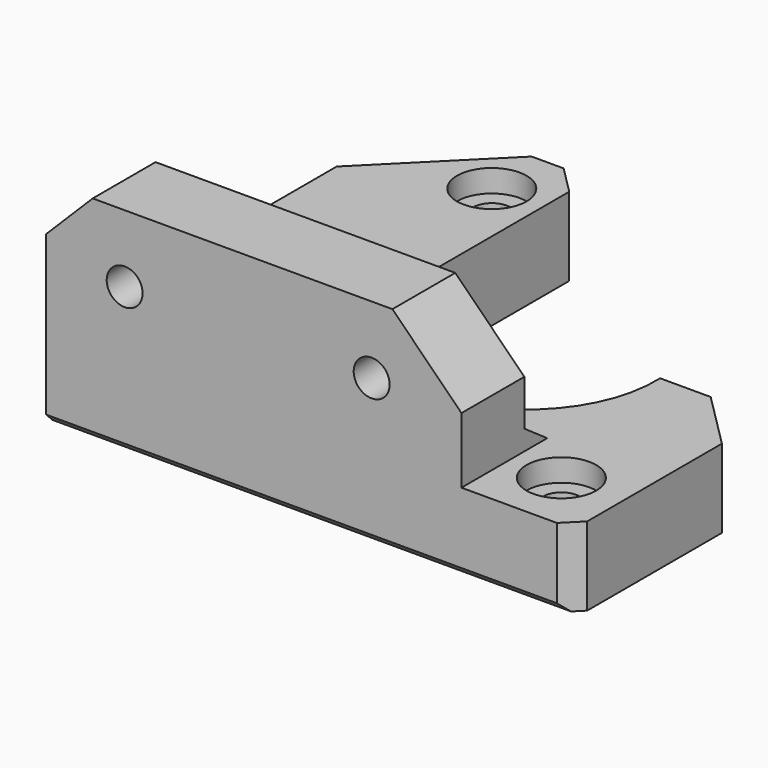
from build123d import *

# Parameters (mm, degrees)
SKETCH_R             = 1.6
PAD_DEPTH            = 42
SKETCH001_R          = 1.65
POCKET_DEPTH         = 7.001
POCKET_DEPTH_BACK    = 12.001
POCKET001_DEPTH      = 26.001
POCKET001_DEPTH_BACK = 21.001
POCKET002_DEPTH      = 3.5
CHAMFER_ANGLE        = 69.184
CHAMFER_SIZE         = 0.35
SKETCH004_R          = 3.1
POCKET003_DEPTH      = 2
SKETCH005_R          = 12
POCKET004_DEPTH      = 12.001


with BuildPart() as part:
    # Sketch → Pad (new body)
    with BuildSketch(Plane.XZ):
        Polygon((-26, -7), (21, -7), (21, 0), (11, 0), (11, 5.85), (4.85, 12), (-21.85, 12), (-26, 7.85), align=None)
        with Locations((-19, 6)):
            Circle(SKETCH_R, mode=Mode.SUBTRACT)
        with Locations((3, 6)):
            Circle(SKETCH_R, mode=Mode.SUBTRACT)
    extrude(amount=-PAD_DEPTH)

    # Sketch001 → Pocket (cut, two sides)
    with BuildSketch(Plane.XY) as pocket_sk:
        with Locations((-15.5, 36.5)):
            Circle(SKETCH001_R)
        with Locations((15.5, 5.5)):
            Circle(SKETCH001_R)
        with BuildLine():
            Line((-27, 31.35), (-15.35, 43))
            Line((-15.35, 43), (-14.5, 43))
            Line((-14.5, 43), (-11, 39.5))
            Line((-11, 39.5), (-11, 24.354102))
            ThreePointArc((-11, 24.354102), (-1.447855, 9.591507), (11.489125, 21.5))
            Line((11.489125, 21.5), (16, 21.5))
            Line((16, 21.5), (22, 15.5))
            Line((22, 15.5), (22, 44))
            Line((22, 44), (-27, 44))
            Line((-27, 44), (-27, 31.35))
        make_face()
        Polygon((21.5, 2), (19.5, 0), (21.5, 0), align=None)
    extrude(amount=-POCKET_DEPTH, mode=Mode.SUBTRACT)
    extrude(pocket_sk.sketch, amount=POCKET_DEPTH_BACK, mode=Mode.SUBTRACT)

    # Sketch002 → Pocket001 (cut, two sides)
    with BuildSketch(Plane.YZ) as pocket001_sk:
        Polygon((7, 13), (7, 1.785529), (9.55, 0), (43, 0), (43, 13), align=None)
        Polygon((0, -7.3), (1, -7.3), (0, -6.3), align=None)
    extrude(amount=-POCKET001_DEPTH, mode=Mode.SUBTRACT)
    extrude(pocket001_sk.sketch, amount=POCKET001_DEPTH_BACK, mode=Mode.SUBTRACT)

    # Sketch003 (on Face18 of Pocket001) → Pocket002 (cut)
    with BuildSketch(Plane(origin=(0, 7, 0), x_dir=(1, 0, 0), z_dir=(0, 1, 0))):
        Polygon((-16.315, -4.449815), (-19, -2.899629), (-21.685, -4.449815), (-21.685, -7.550185), (-19, -9.100371), (-16.315, -7.550185), align=None)
        Polygon((5.685, -4.449815), (3, -2.899629), (0.315, -4.449815), (0.315, -7.550185), (3, -9.100371), (5.685, -7.550185), align=None)
    extrude(amount=-POCKET002_DEPTH, mode=Mode.SUBTRACT)

    # Chamfer
    chamfer_edges = [part.edges().sort_by_distance(p)[0] for p in [
        (-16.315, 7, 6),
        (-17.6575, 7, 3.674722),
        (-20.3425, 7, 3.674722),
        (-21.685, 7, 6),
        (-20.3425, 7, 8.325278),
        (-17.6575, 7, 8.325278),
        (1.6575, 7, 8.325278),
        (4.3425, 7, 8.325278),
        (5.685, 7, 6),
        (4.3425, 7, 3.674722),
        (1.6575, 7, 3.674722),
        (0.315, 7, 6),
    ]]
    chamfer_side = part.faces().sort_by_distance((-7.961685, 7, 6.742023))[0]
    chamfer(chamfer_edges, length=CHAMFER_SIZE, angle=CHAMFER_ANGLE, reference=chamfer_side)

    # Sketch004 (on Face28 of Chamfer) → Pocket003 (cut)
    with BuildSketch(Plane(origin=(0, 0, 0), x_dir=(-1, 0, 0), z_dir=(0, 0, 1))):
        with Locations((-15.5, -5.5)):
            Circle(SKETCH004_R)
        with Locations((15.5, -36.5)):
            Circle(SKETCH004_R)
    extrude(amount=-POCKET003_DEPTH, mode=Mode.SUBTRACT)

    # Sketch005 → Pocket004 (cut, through all)
    with BuildSketch(Plane.XY):
        with Locations((0, 21)):
            Circle(SKETCH005_R)
    extrude(amount=POCKET004_DEPTH, mode=Mode.SUBTRACT)


solid = part.part
